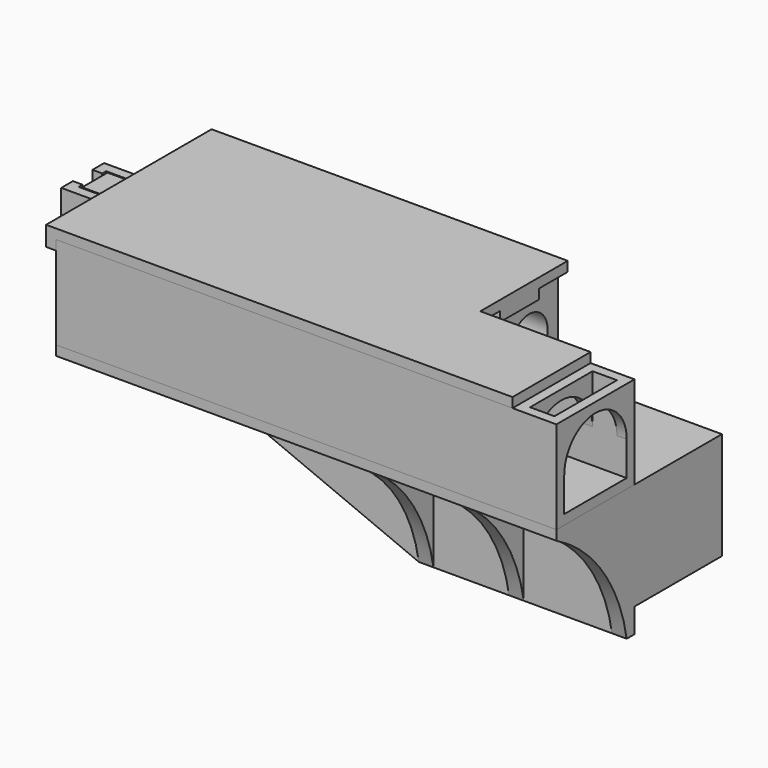
from build123d import *

# Parameters (mm, degrees)
SKETCH014_W          = 44.6
SKETCH014_H          = 24.4
SKETCH014_W_2        = 40.6
SKETCH014_H_2        = 20.4
PAD013_DEPTH         = 12
PAD014_DEPTH         = 2
SKETCH017_W          = 102.6
SKETCH017_H          = 42.4
PAD_DEPTH            = 2
PAD018_DEPTH         = 3
PAD027_DEPTH         = 1.5
PAD028_DEPTH         = 3
PAD032_DEPTH         = 10
SKETCH042_W          = 11
SKETCH042_H          = 7
POCKET002_DEPTH      = 10
PAD039_DEPTH         = 2
PAD029_DEPTH         = 2
SKETCH026_W          = 24.4
SKETCH026_H          = 19
SKETCH026_R          = 4.75
PAD024_DEPTH         = 9
PAD025_DEPTH         = 17
SKETCH033_W          = 42.6
SKETCH033_H          = 2
PAD033_DEPTH         = 17
PAD034_DEPTH         = 19
SKETCH038_W          = 11
SKETCH038_H          = 7
POCKET_DEPTH         = 20
PAD037_DEPTH         = 19
SKETCH040_R          = 1
POCKET001_DEPTH      = 22.401
POCKET001_DEPTH_BACK = -20.001
SKETCH044_W          = 20
SKETCH044_H          = 19
PAD040_DEPTH         = 2
SKETCH045_W          = 20
SKETCH045_H          = 19
PAD041_DEPTH         = 2
SKETCH036_W          = 10
SKETCH036_H          = 20
SKETCH036_R          = 1.2
PAD035_DEPTH         = 3.25
PAD036_DEPTH         = 3.25
PAD038_DEPTH         = 18
PAD030_DEPTH         = 2
SKETCH031_W          = 20
SKETCH031_H          = 2
SKETCH031_W_2        = 2
SKETCH031_H_2        = 12
SKETCH031_H_3        = 10
PAD031_DEPTH         = 2
BOX_W                = 58
BOX_H                = 40
BOX_DEPTH            = 17


with BuildPart() as cap:
    # Sketch014 → Pad013 (new body)
    with BuildSketch(Plane.XY):
        with Locations((20.3, 10.2)):
            Rectangle(SKETCH014_W, SKETCH014_H)
        with Locations((20.3, 10.2)):
            Rectangle(SKETCH014_W_2, SKETCH014_H_2, mode=Mode.SUBTRACT)
    extrude(amount=PAD013_DEPTH)

    # Sketch015 → Pad014 (join)
    with BuildSketch(Plane.XZ):
        Polygon((-60, 10), (0, -15), (42.6, -15), (42.6, 10), align=None)
    extrude(amount=PAD014_DEPTH)

    # Sketch017 → Pad (join)
    with BuildSketch(Plane.XY.offset(12)):
        with Locations((-8.7, 1.2)):
            Rectangle(SKETCH017_W, SKETCH017_H)
    extrude(amount=-PAD_DEPTH)

    # Sketch019 → Pad018 (join)
    with BuildSketch(Plane.YZ.offset(42.6)):
        with BuildLine():
            Line((-2, 10), (-20, 10))
            ThreePointArc((-2, -15), (-8.101597, -0.41315), (-20, 10))
            Line((-2, -15), (-2, 10))
        make_face()
    extrude(amount=-PAD018_DEPTH)

    # Sketch028 → Pad027 (join, symmetric)
    with BuildSketch(Plane.YZ.offset(20)):
        with BuildLine():
            Line((-2, 10), (-20, 10))
            ThreePointArc((-2, -15), (-8.101597, -0.41315), (-20, 10))
            Line((-2, -15), (-2, 10))
        make_face()
    extrude(amount=PAD027_DEPTH, both=True)

    # Sketch029 → Pad028 (join)
    with BuildSketch(Plane.YZ):
        with BuildLine():
            Line((-2, 10), (-20, 10))
            ThreePointArc((-2, -15), (-8.101597, -0.41315), (-20, 10))
            Line((-2, -15), (-2, 10))
        make_face()
    extrude(amount=PAD028_DEPTH)

    # Sketch032 → Pad032 (join)
    with BuildSketch(Plane.XY):
        Polygon((40.6, 22.4), (40.6, 0), (0, 0), (0, 22.4), (-2, 22.4), (-2, -2), (42.6, -2), (42.6, 22.4), align=None)
    extrude(amount=-PAD032_DEPTH)

    # Sketch042 → Pocket002 (cut)
    with BuildSketch(Plane.XY.offset(12)):
        with Locations((-54.5, 0)):
            Rectangle(SKETCH042_W, SKETCH042_H)
    extrude(amount=-POCKET002_DEPTH, mode=Mode.SUBTRACT)

    # Sketch043 → Pad039 (join)
    with BuildSketch(Plane.XZ.offset(-22.4)):
        Polygon((-2, -10), (-60, 10), (-2, 10), align=None)
    extrude(amount=PAD039_DEPTH)


with BuildPart() as guide:
    # Sketch030 → Pad029 (new body)
    with BuildSketch(Plane.XY.offset(12)):
        Polygon((-60, 22.4), (0, 22.4), (0, 0), (42.6, 0), (42.6, -20), (-60, -20), align=None)
    extrude(amount=-PAD029_DEPTH)

    # Sketch026 → Pad024 (join)
    with BuildSketch(Plane.YZ):
        with Locations((10.2, 19.5)):
            Rectangle(SKETCH026_W, SKETCH026_H)
        with Locations((15, 19)):
            Circle(SKETCH026_R, mode=Mode.SUBTRACT)
    extrude(amount=PAD024_DEPTH)

    # Sketch020 → Pad025 (join)
    with BuildSketch(Plane.XY.offset(12)):
        Polygon((0, 22.4), (-60, 22.4), (-60, -20), (42.6, -20), (42.6, -18), (-58, -18), (-58, 20.4), (0, 20.4), align=None)
    extrude(amount=PAD025_DEPTH)

    # Sketch033 → Pad033 (join)
    with BuildSketch(Plane(origin=(35.6, 0, 29), x_dir=(1, 0, 0), z_dir=(0, 0, 1))):
        with Locations((-14.3, -1)):
            Rectangle(SKETCH033_W, SKETCH033_H)
    extrude(amount=-PAD033_DEPTH)

    # Sketch034 → Pad034 (join)
    with BuildSketch(Plane.XY.offset(10)):
        with BuildLine():
            ThreePointArc((-40, 20.4), (-59.2, 1.2), (-40, -18))
            Line((-60, -18), (-40, -18))
            Line((-60, 20.4), (-60, -18))
            Line((-40, 20.4), (-60, 20.4))
        make_face()
    extrude(amount=PAD034_DEPTH)

    # Sketch038 → Pocket (cut)
    with BuildSketch(Plane.XY.offset(30)):
        with Locations((-54.5, 0)):
            Rectangle(SKETCH038_W, SKETCH038_H)
    extrude(amount=-POCKET_DEPTH, mode=Mode.SUBTRACT)

    # Sketch039 → Pad037 (join)
    with BuildSketch(Plane.XY.offset(29)):
        Polygon((-70.5, -5.5), (-58, -5.5), (-58, -3.5), (-68.5, -3.5), (-68.5, -2.5), (-70.5, -2.5), align=None)
        Polygon((-58, 5.5), (-70.5, 5.5), (-70.5, 2.5), (-68.5, 2.5), (-68.5, 3.5), (-58, 3.5), align=None)
    extrude(amount=-PAD037_DEPTH)

    # Sketch040 → Pocket001 (cut, two sides)
    with BuildSketch(Plane.XZ) as pocket001_sk:
        with Locations((-65, 24)):
            Circle(SKETCH040_R)
        with Locations((-65, 14.5)):
            Circle(SKETCH040_R)
    extrude(amount=-POCKET001_DEPTH, mode=Mode.SUBTRACT)
    extrude(pocket001_sk.sketch, amount=-POCKET001_DEPTH_BACK, mode=Mode.SUBTRACT)

    # Sketch044 → Pad040 (join)
    with BuildSketch(Plane.YZ.offset(42.6)):
        with Locations((-10, 19.5)):
            Rectangle(SKETCH044_W, SKETCH044_H)
        with BuildLine():
            ThreePointArc((-2, 19), (-10, 27), (-18, 19))
            Line((-18, 19), (-18, 12))
            Line((-18, 12), (-2, 12))
            Line((-2, 12), (-2, 19))
        make_face(mode=Mode.SUBTRACT)
    extrude(amount=-PAD040_DEPTH)

    # Sketch045 → Pad041 (join)
    with BuildSketch(Plane.YZ.offset(33.6)):
        with Locations((-10, 19.5)):
            Rectangle(SKETCH045_W, SKETCH045_H)
        with BuildLine():
            ThreePointArc((-2, 19), (-10, 27), (-18, 19))
            Line((-18, 19), (-18, 12))
            Line((-18, 12), (-2, 12))
            Line((-2, 12), (-2, 19))
        make_face(mode=Mode.SUBTRACT)
    extrude(amount=PAD041_DEPTH)


with BuildPart() as guide_1:
    # Body004 placement: moved
    add(guide.part.moved(Location((0, 0, 2))))


with BuildPart() as switch:
    # Sketch036 → Pad035 (new body, symmetric)
    with BuildSketch(Plane.XZ):
        with Locations((-5, -10)):
            Rectangle(SKETCH036_W, SKETCH036_H)
        with Locations((-7, -5)):
            Circle(SKETCH036_R, mode=Mode.SUBTRACT)
        with Locations((-7, -14.5)):
            Circle(SKETCH036_R, mode=Mode.SUBTRACT)
    extrude(amount=PAD035_DEPTH, both=True)

    # Sketch037 → Pad036 (join, symmetric)
    with BuildSketch(Plane.XZ):
        Polygon((-0.193185, -0.051764), (5.759653, -22.268058), (8.65743, -21.491601), (7.363335, -16.661972), (4.658743, -17.386665), (0, 0), align=None)
    extrude(amount=PAD036_DEPTH, both=True)


with BuildPart() as switch_1:
    # Body005 placement: moved
    add(switch.part.moved(Location((-58, 0, 31))))


with BuildPart() as cover2:
    # Sketch041 → Pad038 (new body)
    with BuildSketch(Plane(origin=(0, 0, 0), x_dir=(0.965926, 0, 0.258819), z_dir=(-0.258819, 0, 0.965926))):
        with BuildLine():
            ThreePointArc((-27.5, 19.7), (-46, 1.2), (-27.5, -17.3))
            Line((-27.5, -17.3), (12, -17.3))
            Line((12, -17.3), (12, 19.7))
            Line((12, 19.7), (-27.5, 19.7))
        make_face()
    extrude(amount=PAD038_DEPTH)


with BuildPart() as cover2_1:
    # Body006 placement: moved
    add(cover2.part.moved(Location((-9, 0, 28))))


with BuildPart() as cover:
    # Sketch → Pad030 (new body)
    with BuildSketch(Plane.XY):
        Polygon((-62, 22.4), (-62, -20), (33.6, -20), (33.6, 0), (11, 0), (11, 22.4), align=None)
    extrude(amount=PAD030_DEPTH)

    # Sketch031 → Pad031 (join)
    with BuildSketch(Plane.XY):
        with Locations((-25, 19.4)):
            Rectangle(SKETCH031_W, SKETCH031_H)
        with Locations((-10, -17)):
            Rectangle(SKETCH031_W, SKETCH031_H)
        with Locations((32.6, -10)):
            Rectangle(SKETCH031_W_2, SKETCH031_H_2)
        with Locations((-61, 17.4)):
            Rectangle(SKETCH031_W_2, SKETCH031_H_3)
        with Locations((-61, -15)):
            Rectangle(SKETCH031_W_2, SKETCH031_H_3)
        with Locations((10, 10)):
            Rectangle(SKETCH031_W_2, SKETCH031_H_3)
    extrude(amount=-PAD031_DEPTH)


with BuildPart() as cover_1:
    # Body placement: moved
    add(cover.part.moved(Location((0, 0, 31))))


with BuildPart() as cover3:
    # Box → Box (join)
    with BuildSketch(Plane(origin=(-58, -19, 16), x_dir=(1, 0, 0), z_dir=(0, 0, 1))):
        with Locations((29, 20)):
            Rectangle(BOX_W, BOX_H)
    extrude(amount=BOX_DEPTH)

    # Boolean: intersect Cover2
    add(cover2_1.part, mode=Mode.INTERSECT)

    # Boolean001: union Cover
    add(cover_1.part)


solid = Compound([cap.part, guide_1.part, switch_1.part, cover3.part])
